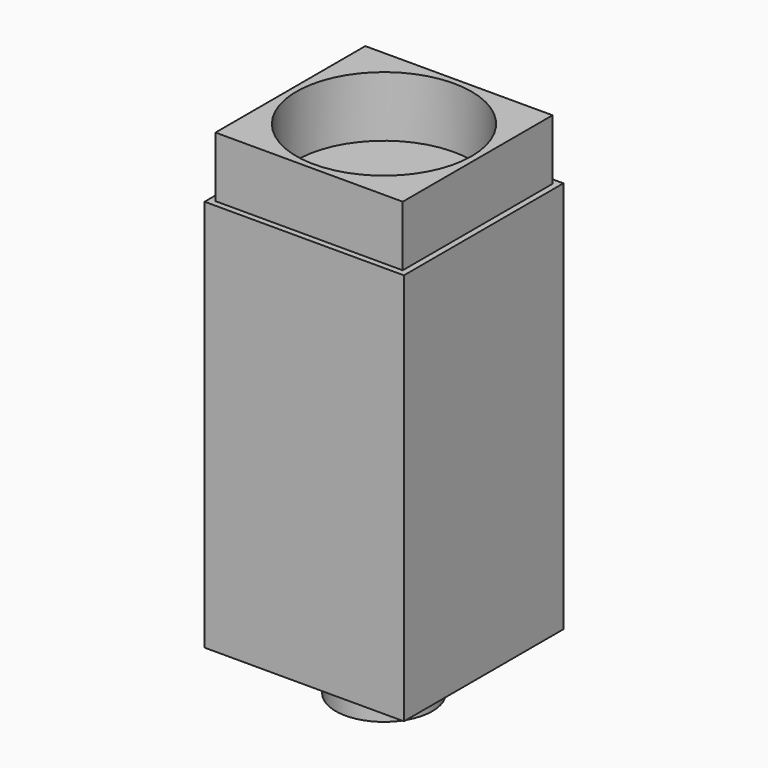
from build123d import *

# Parameters (mm, degrees)
F0_W     = 33
F0_H     = 33
F1_DEPTH = 32.5
F2_R     = 8
F2_R_2   = 2.5
F3_DEPTH = 8
F4_W     = 31
F4_H     = 31
F4_R     = 14.5
F5_DEPTH = 10
F7_D     = 3.3
F7_DEPTH = 6
F7_TIP   = 0.9914200214


with BuildPart() as f1:
    # F0 (on Top) → F1 (new body, symmetric)
    with BuildSketch(Plane.XY):
        Rectangle(F0_W, F0_H)
    extrude(amount=F1_DEPTH, both=True)

    # F7
    with Locations(Plane(origin=(0, 16.5, 0), x_dir=(-1, 0, 0), z_dir=(0, 1, 0))):
        with Locations((0, 15.5), (0, 3.5), (0, -16.5), (0, -24.5)):
            Hole(F7_D / 2, depth=F7_DEPTH)
            with Locations((0, 0, -(F7_DEPTH + F7_TIP / 2))):  # 118° drill point
                Cone(0, F7_D / 2, F7_TIP, mode=Mode.SUBTRACT)


with BuildPart() as f3:
    # F2 (on face) → F3 (new body)
    with BuildSketch(Plane(origin=(0, 0, -32.5), x_dir=(1, 0, 0), z_dir=(0, 0, -1))):
        Circle(F2_R)
        Circle(F2_R_2, mode=Mode.SUBTRACT)
    extrude(amount=F3_DEPTH)


with BuildPart() as f5:
    # F4 (on face) → F5 (new body)
    with BuildSketch(Plane.XY.offset(32.5)):
        Rectangle(F4_W, F4_H)
        Circle(F4_R, mode=Mode.SUBTRACT)
    extrude(amount=F5_DEPTH)


solid = Compound([f1.part, f3.part, f5.part])
